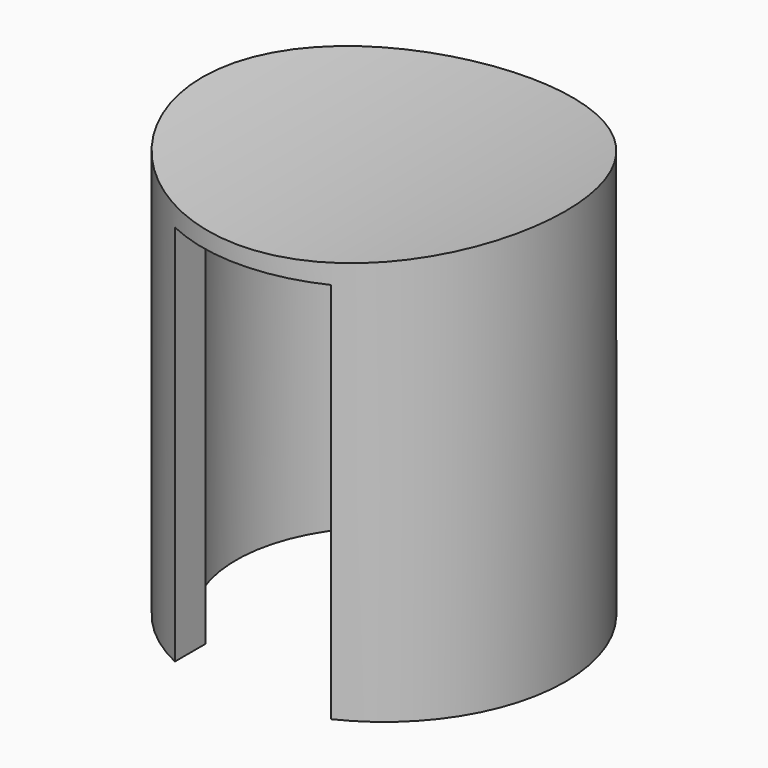
from build123d import *

# Parameters (mm, degrees)
F2_W     = 9.278574
F2_H     = 23.490808
F3_DEPTH = 22.747948
F4_R     = 65
F5_DEPTH = 12.5


with BuildPart() as f1:
    # F0 (on Front) → F1 (revolve)
    with BuildSketch(Plane.XZ):
        Polygon((10.8, -12.5), (10.8, 15.247948), (0, 15.247948), (0, 10.247948), (8.8, 10.247948), (8.8, -11.752052), (8.8, -12.5), align=None)
    revolve(axis=Axis((0, 0, 12.181249), (0, 0, 1)))

    # F2 (on face) → F3 (cut, through all)
    with BuildSketch(Plane(origin=(0, 0, -12.5), x_dir=(1, 0, 0), z_dir=(0, 0, -1))):
        Rectangle(F2_W, F2_H)
    extrude(amount=-F3_DEPTH, mode=Mode.SUBTRACT)

    # F4 (on Front) → F5 (cut, symmetric)
    with BuildSketch(Plane.XZ):
        with Locations((0, 76.247948)):
            Circle(F4_R)
    extrude(amount=F5_DEPTH, both=True, mode=Mode.SUBTRACT)


solid = f1.part
